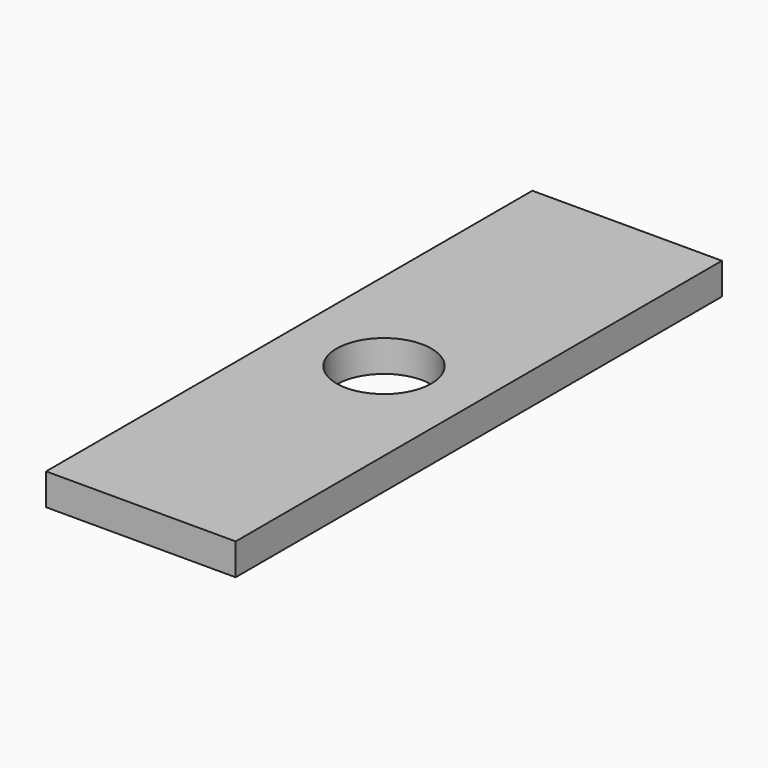
from build123d import *

# Parameters (mm, degrees)
F0_W     = 76.2
F0_H     = 244.288212
F0_R     = 19.053929
F1_DEPTH = 12.7


with BuildPart() as f1:
    # F0 (on Top) → F1 (new body)
    with BuildSketch(Plane.XY):
        with Locations((0.889241, -8.474177)):
            Rectangle(F0_W, F0_H)
        with Locations((0.889241, -8.474177)):
            Circle(F0_R, mode=Mode.SUBTRACT)
    extrude(amount=-F1_DEPTH)


solid = f1.part
